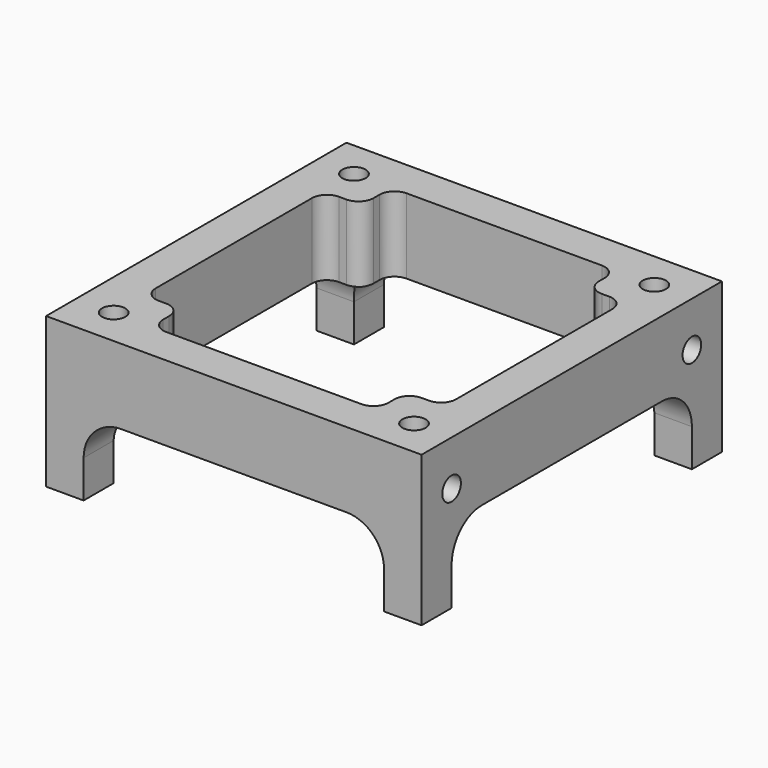
from build123d import *

# Parameters (mm, degrees)
SKETCH055_W             = 50
SKETCH055_H             = 50
PAD009_DEPTH            = 20
POCKET047_DEPTH         = 20.001
POCKET048_DEPTH         = 50.001
POCKET049_DEPTH         = 50.001
SKETCH059_R             = 1.55
POCKET050_DEPTH         = 5
SKETCH060_R             = 1.55
POCKET051_DEPTH         = 3
SKETCH061_R             = 1.55
POCKET052_DEPTH         = 3
BODY010_PLACEMENT_ANGLE = 180


with BuildPart() as part:
    # Sketch055 → Pad009 (new body)
    with BuildSketch(Plane.XY):
        Rectangle(SKETCH055_W, SKETCH055_H)
    extrude(amount=PAD009_DEPTH)

    # Sketch056 (on Face6 of Pad009) → Pocket047 (cut, through all)
    with BuildSketch(Plane.XY.offset(20)):
        with BuildLine():
            Line((-18, 15), (-17, 15))
            ThreePointArc((-17, 15), (-15.585786, 15.585786), (-15, 17))
            Line((-15, 17), (-15, 18))
            ThreePointArc((-13, 20), (-14.414214, 19.414214), (-15, 18))
            Line((-13, 20), (13, 20))
            ThreePointArc((15, 18), (14.414214, 19.414214), (13, 20))
            Line((15, 18), (15, 17))
            ThreePointArc((15, 17), (15.585786, 15.585786), (17, 15))
            Line((17, 15), (18, 15))
            ThreePointArc((20, 13), (19.414214, 14.414214), (18, 15))
            Line((20, 13), (20, -13))
            ThreePointArc((18, -15), (19.414214, -14.414214), (20, -13))
            Line((18, -15), (17, -15))
            ThreePointArc((17, -15), (15.585786, -15.585786), (15, -17))
            Line((15, -17), (15, -18))
            ThreePointArc((13, -20), (14.414214, -19.414214), (15, -18))
            Line((13, -20), (-13, -20))
            ThreePointArc((-15, -18), (-14.414214, -19.414214), (-13, -20))
            Line((-15, -18), (-15, -17))
            ThreePointArc((-15, -17), (-15.585786, -15.585786), (-17, -15))
            Line((-17, -15), (-18, -15))
            ThreePointArc((-20, -13), (-19.414214, -14.414214), (-18, -15))
            Line((-20, -13), (-20, 13))
            ThreePointArc((-18, 15), (-19.414214, 14.414214), (-20, 13))
        make_face()
    extrude(amount=-POCKET047_DEPTH, mode=Mode.SUBTRACT)

    # Sketch057 (on Face3 of Pocket047) → Pocket048 (cut, through all)
    with BuildSketch(Plane.YZ.offset(25)):
        with BuildLine():
            Line((-15, 10), (15, 10))
            ThreePointArc((20, 5), (18.535534, 8.535534), (15, 10))
            Line((20, 5), (20, 0))
            Line((20, 0), (-20, 0))
            Line((-20, 0), (-20, 5))
            ThreePointArc((-15, 10), (-18.535534, 8.535534), (-20, 5))
        make_face()
    extrude(amount=-POCKET048_DEPTH, mode=Mode.SUBTRACT)

    # Sketch058 (on Face6 of Pocket047) → Pocket049 (cut, through all)
    with BuildSketch(Plane.XZ.offset(25)):
        with BuildLine():
            Line((-15, 10), (15, 10))
            ThreePointArc((20, 5), (18.535534, 8.535534), (15, 10))
            Line((20, 5), (20, 0))
            Line((20, 0), (-20, 0))
            Line((-20, 0), (-20, 5))
            ThreePointArc((-15, 10), (-18.535534, 8.535534), (-20, 5))
        make_face()
    extrude(amount=-POCKET049_DEPTH, mode=Mode.SUBTRACT)

    # Sketch059 → Pocket050 (cut)
    with BuildSketch(Plane.XY.offset(20)):
        with Locations((-20, 20)):
            Circle(SKETCH059_R)
        with Locations((20, 20)):
            Circle(SKETCH059_R)
        with Locations((20, -20)):
            Circle(SKETCH059_R)
        with Locations((-20, -20)):
            Circle(SKETCH059_R)
    extrude(amount=-POCKET050_DEPTH, mode=Mode.SUBTRACT)

    # Sketch060 (on Face27 of Pocket050) → Pocket051 (cut)
    with BuildSketch(Plane.XZ.offset(25)):
        with Locations((-20, 14)):
            Circle(SKETCH060_R)
        with Locations((20, 14)):
            Circle(SKETCH060_R)
    extrude(amount=-POCKET051_DEPTH, mode=Mode.SUBTRACT)

    # Sketch061 (on Face11 of Pocket051) → Pocket052 (cut)
    with BuildSketch(Plane(origin=(-25, 0, 0), x_dir=(0, -1, 0), z_dir=(-1, 0, 0))):
        with Locations((-20, 14)):
            Circle(SKETCH061_R)
        with Locations((20, 14)):
            Circle(SKETCH061_R)
    extrude(amount=-POCKET052_DEPTH, mode=Mode.SUBTRACT)


with BuildPart() as part_1:
    # Body010 placement: moved
    add(part.part.moved(Location((145, 145, 0))).rotate(Axis((145, 145, 0), (0, 0, 1)), BODY010_PLACEMENT_ANGLE))


solid = part_1.part
